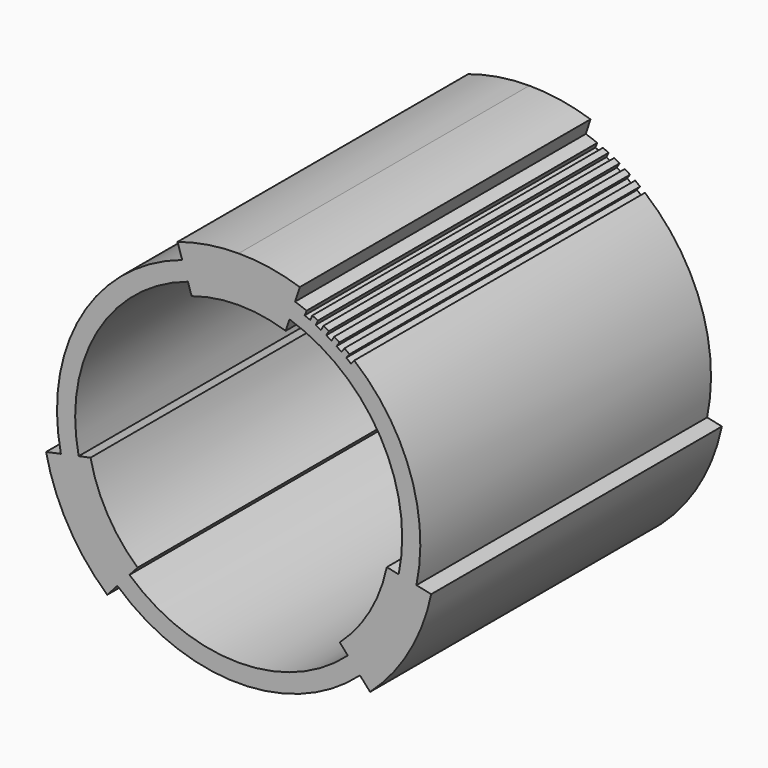
from build123d import *

# Parameters (mm, degrees)
F1_DEPTH = 60


with BuildPart() as f1:
    # F0 (on Front) → F1 (new body)
    with BuildSketch(Plane.XZ):
        with BuildLine():
            Line((-15.323647, 22.809437), (-14.54678, 20.433205))
            ThreePointArc((-14.54678, 20.433205), (-31.205136, 6.918424), (-34.580102, -14.265527))
            Line((-34.580102, -14.265527), (-37.026413, -14.780856))
            ThreePointArc((-37.026413, -14.780856), (-33.3702, -24.331576), (-26.92714, -32.273309))
            Line((-26.92714, -32.273309), (-25.257697, -30.412407))
            ThreePointArc((-25.257697, -30.412407), (-5.224374, -38.081576), (14.808948, -30.412407))
            Line((14.808948, -30.412407), (16.478392, -32.273309))
            ThreePointArc((16.478392, -32.273309), (22.921451, -24.331576), (26.577664, -14.780856))
            Line((26.577664, -14.780856), (24.131354, -14.265527))
            ThreePointArc((24.131354, -14.265527), (23.091117, 1.829678), (13.866516, 15.060116))
            Line((13.866516, 15.060116), (13.326836, 14.405924))
            ThreePointArc((13.326836, 14.405924), (12.941248, 14.718539), (12.550393, 15.024543))
            Line((12.550393, 15.024543), (13.067485, 15.696731))
            ThreePointArc((13.067485, 15.696731), (12.659955, 16.004743), (12.247241, 16.30577))
            Line((12.247241, 16.30577), (11.753336, 15.616366))
            ThreePointArc((11.753336, 15.616366), (11.347366, 15.902013), (10.93659, 16.180706))
            Line((10.93659, 16.180706), (11.406734, 16.886528))
            ThreePointArc((11.406734, 16.886528), (10.979187, 17.166089), (10.546941, 17.43833))
            Line((10.546941, 17.43833), (10.101103, 16.716909))
            ThreePointArc((10.101103, 16.716909), (9.676632, 16.974263), (9.247842, 17.224353))
            Line((9.247842, 17.224353), (9.668858, 17.960536))
            ThreePointArc((9.668858, 17.960536), (9.223275, 18.210351), (8.773503, 18.452542))
            Line((8.773503, 18.452542), (8.377798, 17.70245))
            ThreePointArc((8.377798, 17.70245), (7.936796, 17.930319), (7.491979, 18.150645))
            Line((7.491979, 18.150645), (7.861915, 18.913776))
            ThreePointArc((7.861915, 18.913776), (7.400363, 19.132685), (6.93515, 19.343703))
            Line((6.93515, 19.343703), (6.591413, 18.568419))
            ThreePointArc((6.591413, 18.568419), (6.135926, 18.765745), (5.677145, 18.955287))
            Line((5.677145, 18.955287), (5.994285, 19.741826))
            ThreePointArc((5.994285, 19.741826), (5.051974, 20.103467), (4.098031, 20.433205))
            Line((4.098031, 20.433205), (4.874898, 22.809437))
            ThreePointArc((4.874898, 22.809437), (-0.111055, 24.013656), (-5.224374, 24.418424))
            ThreePointArc((-5.224374, 24.418424), (-10.337694, 24.013656), (-15.323647, 22.809437))
        make_face()
        with BuildLine():
            ThreePointArc((-12.993045, 15.680742), (-9.157697, 16.607064), (-5.224374, 16.918424))
            ThreePointArc((-5.224374, 16.918424), (-1.291052, 16.607064), (2.544297, 15.680742))
            Line((2.544297, 15.680742), (3.165791, 17.581727))
            ThreePointArc((3.165791, 17.581727), (18.158312, 5.418424), (21.195781, -13.647132))
            Line((21.195781, -13.647132), (19.238732, -13.234869))
            ThreePointArc((19.238732, -13.234869), (16.426261, -20.581576), (11.470061, -26.690602))
            Line((11.470061, -26.690602), (12.805616, -28.179324))
            ThreePointArc((12.805616, -28.179324), (-5.224374, -35.081576), (-23.254364, -28.179324))
            Line((-23.254364, -28.179324), (-21.91881, -26.690602))
            ThreePointArc((-21.91881, -26.690602), (-26.875009, -20.581576), (-29.687481, -13.234869))
            Line((-29.687481, -13.234869), (-31.644529, -13.647132))
            ThreePointArc((-31.644529, -13.647132), (-28.60706, 5.418424), (-13.614539, 17.581727))
            Line((-13.614539, 17.581727), (-12.993045, 15.680742))
        make_face(mode=Mode.SUBTRACT)
    extrude(amount=F1_DEPTH)


solid = f1.part
